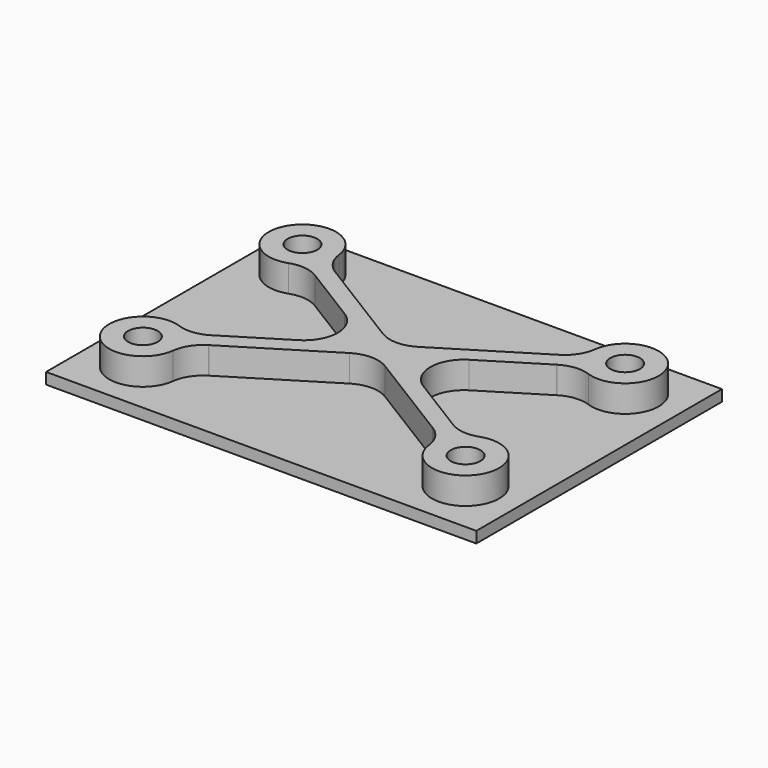
from build123d import *

# Parameters (mm, degrees)
F1_DEPTH = 3.175
F3_DEPTH = 7.62
F4_R     = 9.525
F5_R     = 4.2037
F6_DEPTH = 10.796


with BuildPart() as f1:
    # F0 (on Top) → F1 (new body)
    with BuildSketch(Plane.XY):
        with BuildLine():
            Line((15.24, -56.515), (15.24, 0))
            ThreePointArc((15.24, 0), (-10.7763073453, -10.7763073453), (0, 15.24))
            Line((0, 15.24), (-91.44, 15.24))
            ThreePointArc((-91.44, 15.24), (-80.6636926547, 10.7763073453), (-76.2, 0))
            ThreePointArc((-76.2, 0), (-91.44, -15.24), (-106.68, 0))
            Line((-106.68, 0), (-106.68, -56.515))
            ThreePointArc((-106.68, -56.515), (-91.44, -41.275), (-76.2, -56.515))
            ThreePointArc((-76.2, -56.515), (-80.6636926547, -67.2913073453), (-91.44, -71.755))
            Line((-91.44, -71.755), (0, -71.755))
            ThreePointArc((0, -71.755), (-10.7763073453, -45.7386926547), (15.24, -56.515))
        make_face()
        with BuildLine():
            ThreePointArc((-106.68, -56.515), (-102.2163073453, -67.2913073453), (-91.44, -71.755))
            ThreePointArc((-91.44, -71.755), (-80.6636926547, -67.2913073453), (-76.2, -56.515))
            ThreePointArc((-76.2, -56.515), (-91.44, -41.275), (-106.68, -56.515))
        make_face()
        with BuildLine():
            ThreePointArc((-76.2, 0), (-80.6636926547, 10.7763073453), (-91.44, 15.24))
            ThreePointArc((-91.44, 15.24), (-102.2163073453, 10.7763073453), (-106.68, 0))
            ThreePointArc((-106.68, 0), (-91.44, -15.24), (-76.2, 0))
        make_face()
        with BuildLine():
            ThreePointArc((0, 15.24), (-10.7763073453, -10.7763073453), (15.24, 0))
            ThreePointArc((15.24, 0), (10.7763073453, 10.7763073453), (0, 15.24))
        make_face()
        with BuildLine():
            ThreePointArc((0, -71.755), (10.7763073453, -67.2913073453), (15.24, -56.515))
            ThreePointArc((15.24, -56.515), (-10.7763073453, -45.7386926547), (0, -71.755))
        make_face()
        with BuildLine():
            Line((15.24, -71.755), (15.24, -56.515))
            ThreePointArc((15.24, -56.515), (10.7763073453, -67.2913073453), (0, -71.755))
            Line((0, -71.755), (15.24, -71.755))
        make_face()
        with BuildLine():
            Line((-106.68, -71.755), (-91.44, -71.755))
            ThreePointArc((-91.44, -71.755), (-102.2163073453, -67.2913073453), (-106.68, -56.515))
            Line((-106.68, -56.515), (-106.68, -71.755))
        make_face()
        with BuildLine():
            ThreePointArc((-106.68, 0), (-102.2163073453, 10.7763073453), (-91.44, 15.24))
            Line((-91.44, 15.24), (-106.68, 15.24))
            Line((-106.68, 15.24), (-106.68, 0))
        make_face()
        with BuildLine():
            ThreePointArc((0, 15.24), (10.7763073453, 10.7763073453), (15.24, 0))
            Line((15.24, 0), (15.24, 15.24))
            Line((15.24, 15.24), (0, 15.24))
        make_face()
    extrude(amount=-F1_DEPTH)

    # F2 (on face) → F3 (join)
    with BuildSketch(Plane.XY):
        with BuildLine():
            Line((-9.0970156165, -2.8231067769), (-14.056494823, -5.8883404532))
            ThreePointArc((-14.056494823, -5.8883404532), (-12.9637932823, -8.0123444592), (-11.5526371794, -9.9395258539))
            Line((-11.5526371794, -9.9395258539), (-6.593157973, -6.8742921776))
            ThreePointArc((-6.593157973, -6.8742921776), (8.1023708015, 5.007715287), (-9.0970156165, -2.8231067769))
        make_face()
        with BuildLine():
            ThreePointArc((-11.5526371794, -46.5754741461), (-12.9637932823, -48.5026555408), (-14.056494823, -50.6266595468))
            Line((-14.056494823, -50.6266595468), (-9.0970156165, -53.6918932231))
            ThreePointArc((-9.0970156165, -53.6918932231), (8.1023708015, -61.522715287), (-6.593157973, -49.6407078224))
            Line((-6.593157973, -49.6407078224), (-11.5526371794, -46.5754741461))
        make_face()
        with BuildLine():
            ThreePointArc((-77.383505177, -50.6266595468), (-78.4762067177, -48.5026555408), (-79.8873628206, -46.5754741461))
            Line((-79.8873628206, -46.5754741461), (-84.846842027, -49.6407078224))
            ThreePointArc((-84.846842027, -49.6407078224), (-99.5423708015, -61.522715287), (-82.3429843835, -53.6918932231))
            Line((-82.3429843835, -53.6918932231), (-77.383505177, -50.6266595468))
        make_face()
        with BuildLine():
            ThreePointArc((-82.3429843835, -2.8231067769), (-99.5423708015, 5.007715287), (-84.846842027, -6.8742921776))
            Line((-84.846842027, -6.8742921776), (-79.8873628206, -9.9395258539))
            ThreePointArc((-79.8873628206, -9.9395258539), (-78.4762067177, -8.0123444592), (-77.383505177, -5.8883404532))
            Line((-77.383505177, -5.8883404532), (-82.3429843835, -2.8231067769))
        make_face()
        with BuildLine():
            ThreePointArc((-82.3429843835, -2.8231067769), (-99.5423708015, 5.007715287), (-84.846842027, -6.8742921776))
            Line((-84.846842027, -6.8742921776), (-79.8873628206, -9.9395258539))
            ThreePointArc((-79.8873628206, -9.9395258539), (-78.4762067177, -8.0123444592), (-77.383505177, -5.8883404532))
            Line((-77.383505177, -5.8883404532), (-82.3429843835, -2.8231067769))
        make_face()
        with BuildLine():
            ThreePointArc((-77.383505177, -5.8883404532), (-78.4762067177, -8.0123444592), (-79.8873628206, -9.9395258539))
            Line((-79.8873628206, -9.9395258539), (-50.249292292, -28.2575))
            Line((-50.249292292, -28.2575), (-79.8873628206, -46.5754741461))
            ThreePointArc((-79.8873628206, -46.5754741461), (-78.4762067177, -48.5026555408), (-77.383505177, -50.6266595468))
            Line((-77.383505177, -50.6266595468), (-45.72, -31.0568542638))
            Line((-45.72, -31.0568542638), (-14.056494823, -50.6266595468))
            ThreePointArc((-14.056494823, -50.6266595468), (-12.9637932823, -48.5026555408), (-11.5526371794, -46.5754741461))
            Line((-11.5526371794, -46.5754741461), (-41.190707708, -28.2575))
            Line((-41.190707708, -28.2575), (-11.5526371794, -9.9395258539))
            ThreePointArc((-11.5526371794, -9.9395258539), (-12.9637932823, -8.0123444592), (-14.056494823, -5.8883404532))
            Line((-14.056494823, -5.8883404532), (-45.72, -25.4581457362))
            Line((-45.72, -25.4581457362), (-77.383505177, -5.8883404532))
        make_face()
        with BuildLine():
            ThreePointArc((-77.383505177, -5.8883404532), (-78.4762067177, -8.0123444592), (-79.8873628206, -9.9395258539))
            Line((-79.8873628206, -9.9395258539), (-50.249292292, -28.2575))
            Line((-50.249292292, -28.2575), (-79.8873628206, -46.5754741461))
            ThreePointArc((-79.8873628206, -46.5754741461), (-78.4762067177, -48.5026555408), (-77.383505177, -50.6266595468))
            Line((-77.383505177, -50.6266595468), (-45.72, -31.0568542638))
            Line((-45.72, -31.0568542638), (-14.056494823, -50.6266595468))
            ThreePointArc((-14.056494823, -50.6266595468), (-12.9637932823, -48.5026555408), (-11.5526371794, -46.5754741461))
            Line((-11.5526371794, -46.5754741461), (-41.190707708, -28.2575))
            Line((-41.190707708, -28.2575), (-11.5526371794, -9.9395258539))
            ThreePointArc((-11.5526371794, -9.9395258539), (-12.9637932823, -8.0123444592), (-14.056494823, -5.8883404532))
            Line((-14.056494823, -5.8883404532), (-45.72, -25.4581457362))
            Line((-45.72, -25.4581457362), (-77.383505177, -5.8883404532))
        make_face()
    extrude(amount=F3_DEPTH)

    # F4
    f4_edges = [f1.edges().sort_by_distance(p)[0] for p in [
        (-45.72, -31.056854, 3.81),
        (-82.342984, -53.691893, 3.81),
        (-9.097016, -53.691893, 3.81),
        (-6.593158, -6.874292, 3.81),
        (-84.846842, -49.640708, 3.81),
        (-50.249292, -28.2575, 3.81),
        (-84.846842, -6.874292, 3.81),
        (-82.342984, -2.823107, 3.81),
        (-45.72, -25.458146, 3.81),
        (-9.097016, -2.823107, 3.81),
        (-41.190708, -28.2575, 3.81),
        (-6.593158, -49.640708, 3.81),
    ]]
    fillet(f4_edges, radius=F4_R)

    # F5 (on face) → F6 (cut, through all)
    with BuildSketch(Plane.XY.offset(7.62)):
        with Locations((0, -56.515)):
            Circle(F5_R)
        with Locations((-91.44, -56.515)):
            Circle(F5_R)
        with Locations((-91.44, 0)):
            Circle(F5_R)
        Circle(F5_R)
    extrude(amount=-F6_DEPTH, mode=Mode.SUBTRACT)


solid = f1.part
